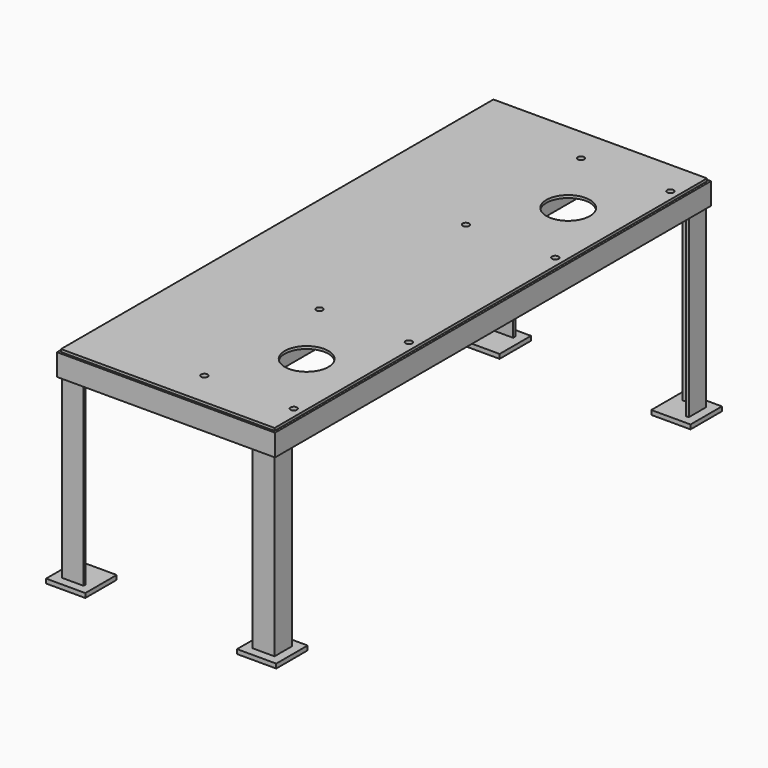
from build123d import *

# Parameters (mm, degrees)
F1_DEPTH  = 250
F3_DEPTH  = 625
F5_DEPTH  = 450
F6_W      = 90
F6_H      = 90
F7_DEPTH  = 10
F8_W      = 490
F8_H      = 1240
F9_DEPTH  = 6
F11_DEPTH = 575
F12_R     = 7.5
F12_R_2   = 50
F13_DEPTH = 12


with BuildPart() as f1:
    # F0 (on Right) → F1 (new body, symmetric)
    with BuildSketch(Plane.YZ):
        Polygon((-575, 0), (-625, 0), (-625, -50), (-619, -50), (-619, -6), (-575, -6), align=None)
    extrude(amount=F1_DEPTH, both=True)



with BuildPart() as f1b:
    # F0 (on Right) → F1, piece 2 (new body, symmetric)
    with BuildSketch(Plane.YZ):
        Polygon((625, 0), (575, 0), (575, -6), (619, -6), (619, -50), (625, -50), align=None)
    extrude(amount=F1_DEPTH, both=True)


with BuildPart() as f1_1:
    add(f1.part)

    add(f1b.part)  # F3 merges F1b
    # F2 (on Front) → F3 (join, symmetric)
    with BuildSketch(Plane.XZ):
        Polygon((-200, -6), (-200, 0), (-250, 0), (-250, -50), (-244, -50), (-244, -6), align=None)
        Polygon((200, 0), (200, -6), (244, -6), (244, -50), (250, -50), (250, 0), align=None)
    extrude(amount=F3_DEPTH, both=True)

    # F4 (on face) → F5 (join)
    with BuildSketch(Plane(origin=(0, 0, -6), x_dir=(1, 0, 0), z_dir=(0, 0, -1))):
        Polygon((244, 569), (244, 619), (194, 619), (194, 613), (238, 613), (238, 569), align=None)
        Polygon((244, -619), (244, -569), (238, -569), (238, -613), (194, -613), (194, -619), align=None)
        Polygon((-194, -619), (-194, -613), (-238, -613), (-238, -569), (-244, -569), (-244, -619), align=None)
        Polygon((-238, 613), (-194, 613), (-194, 619), (-244, 619), (-244, 569), (-238, 569), align=None)
    extrude(amount=F5_DEPTH)

    # F6 (on face) → F7 (join)
    with BuildSketch(Plane(origin=(0, 0, -456), x_dir=(1, 0, 0), z_dir=(0, 0, -1))):
        with Locations((-219, -594)):
            Rectangle(F6_W, F6_H)
        with Locations((-219, 594)):
            Rectangle(F6_W, F6_H)
        with Locations((219, 594)):
            Rectangle(F6_W, F6_H)
        with Locations((219, -594)):
            Rectangle(F6_W, F6_H)
    extrude(amount=F7_DEPTH)


with BuildPart() as f9:
    # F8 (on face) → F9 (new body)
    with BuildSketch(Plane.XY):
        Rectangle(F8_W, F8_H)
    extrude(amount=F9_DEPTH)

    # F10 (on Front) → F11 (join, symmetric)
    with BuildSketch(Plane.XZ):
        Polygon((45, -50), (45, 0), (-5, 0), (-5, -6), (39, -6), (39, -50), align=None)
    extrude(amount=F11_DEPTH, both=True)


with BuildPart() as f13_tool:
    # F12 (on face) → F13 (new body)
    with BuildSketch(Plane.XY.offset(6)):
        with Locations((20, -210)):
            Circle(F12_R)
        with Locations((225, -210)):
            Circle(F12_R)
        with Locations((225, -540)):
            Circle(F12_R)
        with Locations((20, -540)):
            Circle(F12_R)
        with Locations((20, 540)):
            Circle(F12_R)
        with Locations((225, 540)):
            Circle(F12_R)
        with Locations((225, 210)):
            Circle(F12_R)
        with Locations((20, 210)):
            Circle(F12_R)
        with Locations((122.5, -375)):
            Circle(F12_R_2)
        with Locations((122.5, 375)):
            Circle(F12_R_2)
    extrude(amount=-F13_DEPTH)


with BuildPart() as f1_2:
    add(f1_1.part)

    # F13: cut by f13_tool
    add(f13_tool.part, mode=Mode.SUBTRACT)


with BuildPart() as f9_1:
    add(f9.part)

    # F13: cut by f13_tool
    add(f13_tool.part, mode=Mode.SUBTRACT)


solid = Compound([f1_2.part, f9_1.part])
